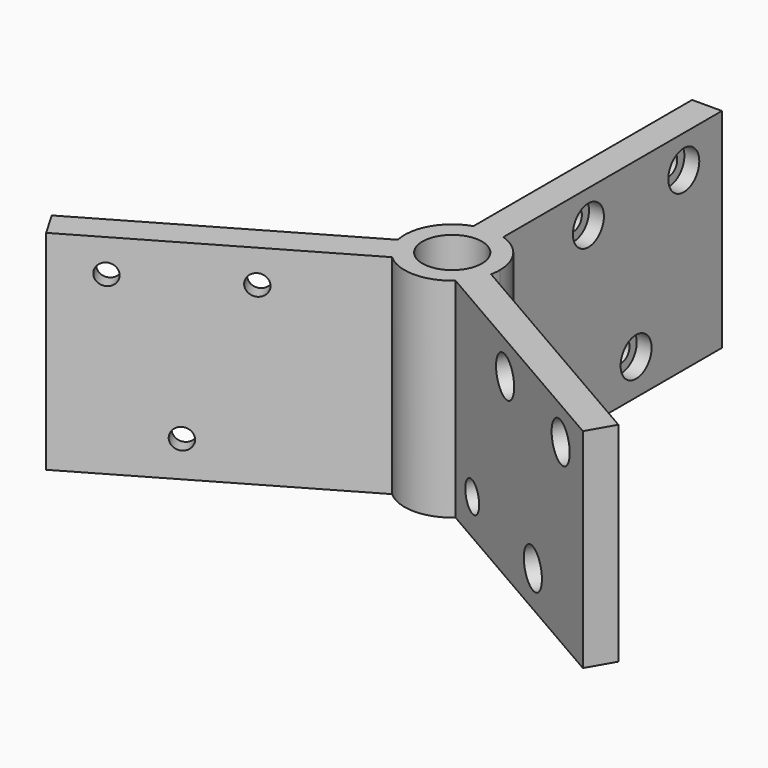
from build123d import *

# Parameters (mm, degrees)
F1_DEPTH        = 35
F2_DEPTH        = 35
F6_D            = 3.5
F6_DEPTH        = 12
F6_CBORE_D      = 6.5
F6_CBORE_DEPTH  = 2.5
F6_TIP          = 1.0515060833
F7_D            = 3.5
F7_DEPTH        = 12
F7_CBORE_D      = 6.5
F7_CBORE_DEPTH  = 2.5
F7_TIP          = 1.0515060833
F8_D            = 3.5
F8_DEPTH        = 12
F8_CBORE_D      = 6.5
F8_CBORE_DEPTH  = 2.5
F8_TIP          = 1.0515060833
F3_R            = 2.5
F9_DEPTH        = 25
F11_D           = 6.5
F11_DEPTH       = 35
F11_CBORE_D     = 10
F11_CBORE_DEPTH = 25
F11_TIP         = 1.9527970118


with BuildPart() as f1:
    # F0 (on Top) → F1 (new body)
    with BuildSketch(Plane.XY):
        with BuildLine():
            Line((-2.5, 7.5993420768), (-2.5, 1.443375673))
            Line((-2.5, 1.443375673), (2.5, 1.443375673))
            Line((2.5, 1.443375673), (2.5, 7.5993420768))
            ThreePointArc((2.5, 7.5993420768), (0, 8), (-2.5, 7.5993420768))
        make_face()
        with BuildLine():
            Line((-2.5, 53.443375673), (-2.5, 7.5993420768))
            ThreePointArc((-2.5, 7.5993420768), (0, 8), (2.5, 7.5993420768))
            Line((2.5, 7.5993420768), (2.5, 53.443375673))
            Line((2.5, 53.443375673), (-2.5, 53.443375673))
        make_face()
        with BuildLine():
            Line((7.8312232905, -1.6346075289), (2.5, 1.443375673))
            Line((2.5, 1.443375673), (0, -2.8867513459))
            Line((0, -2.8867513459), (5.3312232905, -5.9647345479))
            ThreePointArc((5.3312232905, -5.9647345479), (6.9282032303, -4), (7.8312232905, -1.6346075289))
        make_face()
        Polygon((2.5, 1.443375673), (-2.5, 1.443375673), (0, -2.8867513459), align=None)
        with BuildLine():
            Line((0, -2.8867513459), (-2.5, 1.443375673))
            Line((-2.5, 1.443375673), (-7.8312232905, -1.6346075289))
            ThreePointArc((-7.8312232905, -1.6346075289), (-6.9282032303, -4), (-5.3312232905, -5.9647345479))
            Line((-5.3312232905, -5.9647345479), (0, -2.8867513459))
        make_face()
        with BuildLine():
            Line((47.5333209968, -24.556624327), (7.8312232905, -1.6346075289))
            ThreePointArc((7.8312232905, -1.6346075289), (6.9282032303, -4), (5.3312232905, -5.9647345479))
            Line((5.3312232905, -5.9647345479), (45.0333209968, -28.8867513459))
            Line((45.0333209968, -28.8867513459), (47.5333209968, -24.556624327))
        make_face()
        with BuildLine():
            ThreePointArc((-5.3312232905, -5.9647345479), (-6.9282032303, -4), (-7.8312232905, -1.6346075289))
            Line((-7.8312232905, -1.6346075289), (-47.5333209968, -24.556624327))
            Line((-47.5333209968, -24.556624327), (-45.0333209968, -28.8867513459))
            Line((-45.0333209968, -28.8867513459), (-5.3312232905, -5.9647345479))
        make_face()
    extrude(amount=F1_DEPTH)

    # F0 (on Top) → F2 (join)
    with BuildSketch(Plane.XY):
        with BuildLine():
            Line((-7.8312232905, -1.6346075289), (-2.5, 1.443375673))
            Line((-2.5, 1.443375673), (-2.5, 7.5993420768))
            ThreePointArc((-2.5, 7.5993420768), (-6.9282032303, 4), (-7.8312232905, -1.6346075289))
        make_face()
        with BuildLine():
            Line((2.5, 7.5993420768), (2.5, 1.443375673))
            Line((2.5, 1.443375673), (7.8312232905, -1.6346075289))
            ThreePointArc((7.8312232905, -1.6346075289), (7.9576939601, -0.8216488531), (8, 0))
            ThreePointArc((8, 0), (6.4807406984, 4.6904157598), (2.5, 7.5993420768))
        make_face()
        with BuildLine():
            Line((5.3312232905, -5.9647345479), (0, -2.8867513459))
            Line((0, -2.8867513459), (-5.3312232905, -5.9647345479))
            ThreePointArc((-5.3312232905, -5.9647345479), (0, -8), (5.3312232905, -5.9647345479))
        make_face()
    extrude(amount=F2_DEPTH)

    # F6
    with Locations(Plane(origin=(-1.25, -2.1650635095, 0), x_dir=(0.8660254038, -0.5, 0), z_dir=(-0.5, -0.8660254038, 0))):
        with Locations((25.443375673, 29.5), (45.443375673, 29.5), (35.443375673, 6)):
            CounterBoreHole(F6_D / 2, F6_CBORE_D / 2, F6_CBORE_DEPTH, depth=F6_DEPTH)
            with Locations((0, 0, -(F6_DEPTH + F6_TIP / 2))):  # 118° drill point
                Cone(0, F6_D / 2, F6_TIP, mode=Mode.SUBTRACT)

    # F7
    with Locations(Plane.YZ.offset(2.5)):
        with Locations((25.443375673, 29.5), (45.443375673, 29.5), (35.443375673, 6)):
            CounterBoreHole(F7_D / 2, F7_CBORE_D / 2, F7_CBORE_DEPTH, depth=F7_DEPTH)
            with Locations((0, 0, -(F7_DEPTH + F7_TIP / 2))):  # 118° drill point
                Cone(0, F7_D / 2, F7_TIP, mode=Mode.SUBTRACT)

    # F8
    with Locations(Plane(origin=(-1.25, 2.1650635095, 0), x_dir=(-0.8660254038, -0.5, 0), z_dir=(-0.5, 0.8660254038, 0))):
        with Locations((25.443375673, 29.5), (45.443375673, 29.5), (35.443375673, 6)):
            CounterBoreHole(F8_D / 2, F8_CBORE_D / 2, F8_CBORE_DEPTH, depth=F8_DEPTH)
            with Locations((0, 0, -(F8_DEPTH + F8_TIP / 2))):  # 118° drill point
                Cone(0, F8_D / 2, F8_TIP, mode=Mode.SUBTRACT)

    # F3 (on face) → F9 (cut)
    with BuildSketch(Plane(origin=(-1.25, -2.1650635095, 0), x_dir=(0.8660254038, -0.5, 0), z_dir=(-0.5, -0.8660254038, 0))):
        with Locations((13.5993420768, 6)):
            Circle(F3_R)
    extrude(amount=-F9_DEPTH, mode=Mode.SUBTRACT)

    # F11
    with Locations(Plane.XY.offset(35)):
        with Locations((0, 0)):
            CounterBoreHole(F11_D / 2, F11_CBORE_D / 2, F11_CBORE_DEPTH, depth=F11_DEPTH)
            with Locations((0, 0, -(F11_DEPTH + F11_TIP / 2))):  # 118° drill point
                Cone(0, F11_D / 2, F11_TIP, mode=Mode.SUBTRACT)


solid = f1.part
